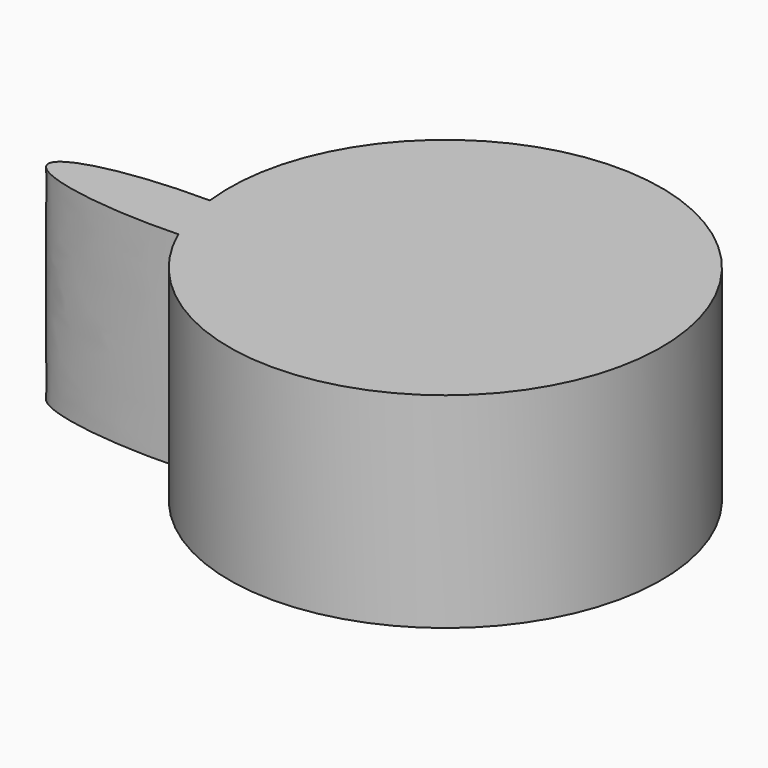
from build123d import *

# Parameters (mm, degrees)
F1_DEPTH = 61.214


with BuildPart() as f1:
    # F0 (on Top) → F1 (new body)
    with BuildSketch(Plane.XY):
        with BuildLine():
            add(Edge.make_bspline(
                [(-43.2145491737, -25.0714750646), (-10.3741949424, -23.8013553833), (-10.3741949424, -16.1693673581)],
                knots=[4.8795874619, 4.8795874619, 4.8795874619, 6.2831853072, 6.2831853072, 6.2831853072], degree=2, weights=[1, 0.7636820526, 1]))
            add(Edge.make_bspline(
                [(-10.3741949424, -16.1693673581), (-10.3741949424, -7.515299567), (-48.1054200736, -7.1494344776)],
                knots=[0, 0, 0, 1.5285070621, 1.5285070621, 1.5285070621], degree=2, weights=[1, 0.7218991138, 1]))
            ThreePointArc((-48.1054200736, -7.1494344776), (-46.3083082577, -16.2873803383), (-43.2145491737, -25.0714750646))
        make_face()
        with BuildLine():
            add(Edge.make_bspline(
                [(-10.3741949424, -16.1693673581), (-10.3741949424, -7.515299567), (-48.1054200736, -7.1494344776)],
                knots=[0, 0, 0, 1.5285070621, 1.5285070621, 1.5285070621], degree=2, weights=[1, 0.7218991138, 1]))
            add(Edge.make_bspline(
                [(-43.2145491737, -25.0714750646), (-10.3741949424, -23.8013553833), (-10.3741949424, -16.1693673581)],
                knots=[4.8795874619, 4.8795874619, 4.8795874619, 6.2831853072, 6.2831853072, 6.2831853072], degree=2, weights=[1, 0.7636820526, 1]))
            ThreePointArc((-43.2145491737, -25.0714750646), (29.1078625988, -62.4713755356), (80.4741864559, 0.7012813123))
            ThreePointArc((80.4741864559, 0.7012813123), (12.0120437464, 65.1108088562), (-48.1054200736, -7.1494344776))
        make_face()
        with BuildLine():
            ThreePointArc((-43.2145491737, -25.0714750646), (-46.3083082577, -16.2873803383), (-48.1054200736, -7.1494344776))
            add(Edge.make_bspline(
                [(-48.1054200736, -7.1494344776), (-91.8219289727, -6.7255324077), (-89.0909644987, -16.7328413608), (-86.3600000247, -26.740150314), (-43.2145491737, -25.0714750646)],
                knots=[1.5285070621, 1.5285070621, 1.5285070621, 3.204047262, 3.204047262, 4.8795874619, 4.8795874619, 4.8795874619], degree=2, weights=[1, 0.6691216447, 1, 0.6691216447, 1]))
        make_face()
    extrude(amount=F1_DEPTH)


solid = f1.part
